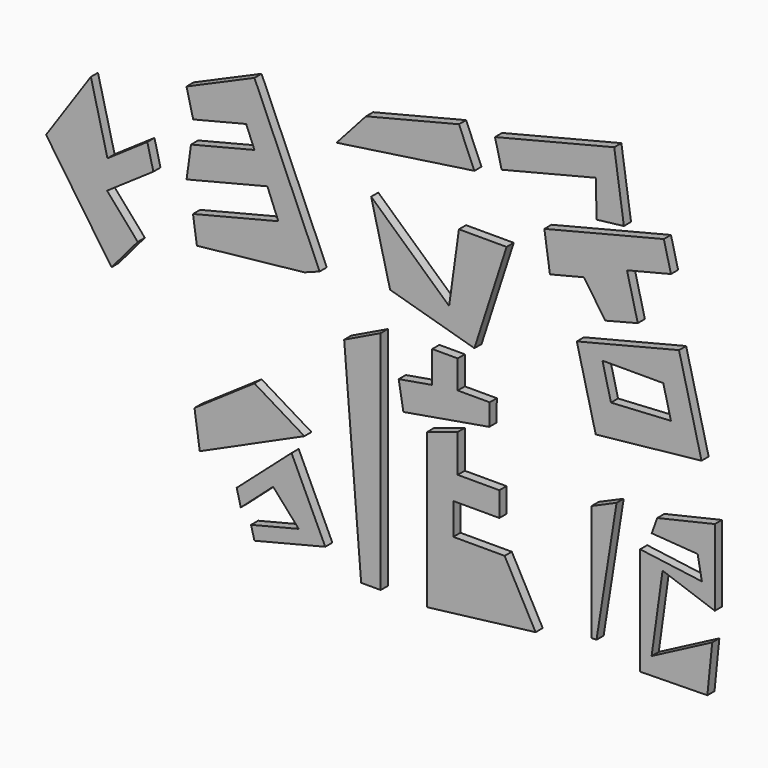
from build123d import *

# Parameters (mm, degrees)
F1_DEPTH = 25


with BuildPart() as f1:
    # F0 (on Front) → F1 (new body)
    with BuildSketch(Plane.XZ):
        Polygon((105.621301, -293.162137), (294.231683, -290.173262), (307.887018, -155.157492), (137.968197, -244.007826), (168.581828, -23.152474), (315.09611, -74.78606), (315.09611, 139.430016), (153.635487, 101.844788), (138.282701, 59.157178), (267.008692, 49.866036), (278.941274, -14.00375), (105.621301, 8.99884), align=None)
        Polygon((-30.590184, -254.397571), (-16.640842, -254.224986), (39.647017, 102.277629), (-30.590184, 71.574166), align=None)
        Polygon((-985.445756, -285.408615), (-975.928307, -321.585357), (-777.352631, -271.956589), (-871.86873, -71.242757), (-1025.580049, -206.985906), (-1014.332558, -251.989603), (-923.539996, -171.243623), (-851.728901, -251.989603), align=None)
        Polygon((-1129.229069, -150.507167), (-835.851073, -17.885055), (-975.928307, 66.904081), (-1144.078903, -48.457111), align=None)
        Polygon((-18.795855, 251.951051), (277.846664, 283.651084), (214.740997, 536.15081), (-71.918808, 464.507729), align=None)
        Polygon((170.671704, 440.397514), (192.194074, 354.281753), (23.939335, 344.610943), (0, 440.397514), align=None, mode=Mode.SUBTRACT)
        Polygon((8.083211, 541.816705), (99.073119, 565.155447), (68.909717, 685.845888), (192.194074, 716.657571), (172.225441, 796.556489), (-162.84059, 712.815545), (-147.227491, 605.520232), (-51.956535, 629.330702), align=None)
        Polygon((-16.137393, 783.173793), (60.178287, 792.261004), (33.146898, 978.024338), (-301.334083, 894.429612), (-282.682138, 819.799055), (-18.795855, 885.750493), align=None)
        Polygon((-595.524126, 421.685743), (-359.045684, 354.281753), (-268.732198, 633.809626), (-402.434884, 633.809626), (-429.944811, 435.345269), (-648.671329, 634.339452), align=None)
        Polygon((-745.600795, 736.011359), (-359.045684, 792.261004), (-402.434884, 893.130963), (-663.111687, 827.981651), align=None)
        Polygon((-1137.351035, 354.281753), (-835.851073, 386.500865), (-793.0909, 402.468556), (-975.928307, 821.102917), (-1166.464244, 737.88687), (-1147.660359, 662.64837), (-999.070329, 699.784541), (-975.928307, 643.143624), (-1153.73037, 598.706674), (-1166.232145, 508.515347), (-939.602584, 565.155447), (-908.953777, 488.942523), (-1148.243797, 429.138274), align=None)
        Polygon((-1303.233027, 309.756249), (-1389.154553, 408.312052), (-1259.37099, 497.351205), (-1276.316877, 565.155447), (-1388.136205, 488.440816), (-1434.653334, 674.566133), (-1560.23252, 490.654618), (-1376.733401, 223.186105), align=None)
        Polygon((-491.873384, -328.212827), (-187.444955, -291.033775), (-274.22446, -130.68676), (-418.290883, -130.68676), (-418.290883, -42.152181), (-289.057046, -42.152181), (-289.057046, 26.428942), (-405.933231, 26.428942), (-405.933231, 132.17473), (-491.873384, 104.13821), align=None)
        Polygon((-558.13694, 132.17473), (-317.47368, 173.644617), (-316.09568, 234.689221), (-405.933231, 234.689221), (-405.933231, 313.908696), (-477.286965, 313.908696), (-477.286965, 225.137115), (-571.362421, 208.926504), align=None)
        Polygon((-676.629066, -328.212827), (-621.818483, -328.212827), (-621.818483, 306.012601), (-724.290848, 256.589144), align=None)
    extrude(amount=F1_DEPTH)


solid = f1.part
